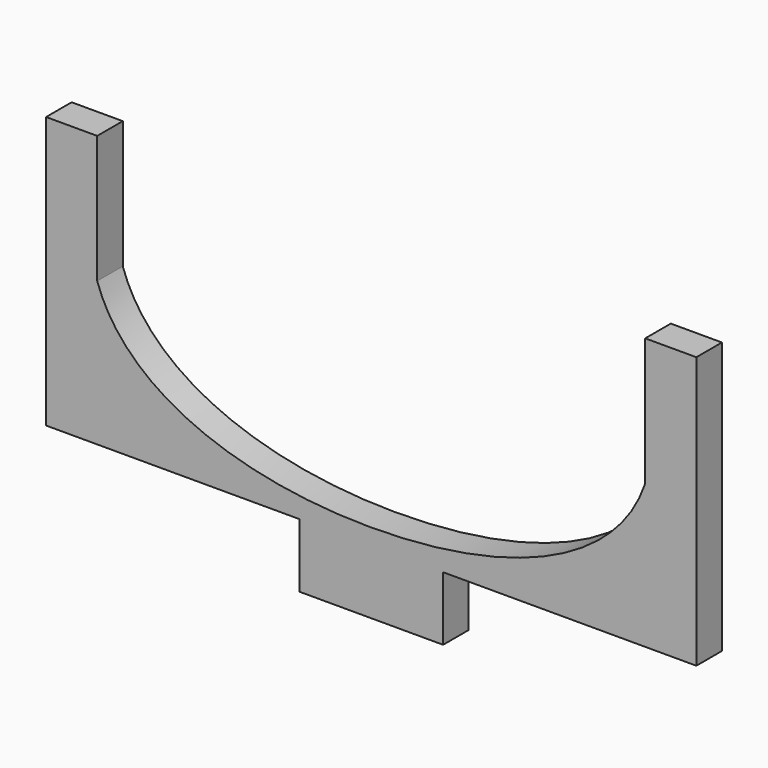
from build123d import *

# Parameters (mm, degrees)
F1_DEPTH = 1


with BuildPart() as f1:
    # F0 (on Front) → F1 (new body)
    with BuildSketch(Plane.XZ):
        with BuildLine():
            add(Edge.make_bspline(
                [(0, -4), (3.992612, -4), (7.655053, -2.727664), (8.575, 0)],
                knots=[0, 0, 0, 0, 9.356775, 9.356775, 9.356775, 9.356775], degree=3))
            add(Edge.make_bspline(
                [(0, -4), (-3.992612, -4), (-7.655053, -2.727664), (-8.575, 0)],
                knots=[0, 0, 0, 0, 9.356775, 9.356775, 9.356775, 9.356775], degree=3))
            Line((-8.575, 0), (-8.575, 4))
            Line((-8.575, 4), (-10.175, 4))
            Line((-10.175, 4), (-10.175, -4.5))
            Line((-10.175, -4.5), (-2.25, -4.5))
            Line((-2.25, -4.5), (-2.25, -6.5))
            Line((-2.25, -6.5), (2.25, -6.5))
            Line((2.25, -6.5), (2.25, -4.5))
            Line((2.25, -4.5), (10.175, -4.5))
            Line((10.175, -4.5), (10.175, 4))
            Line((10.175, 4), (8.575, 4))
            Line((8.575, 4), (8.575, 0))
        make_face()
    extrude(amount=F1_DEPTH)


solid = f1.part
